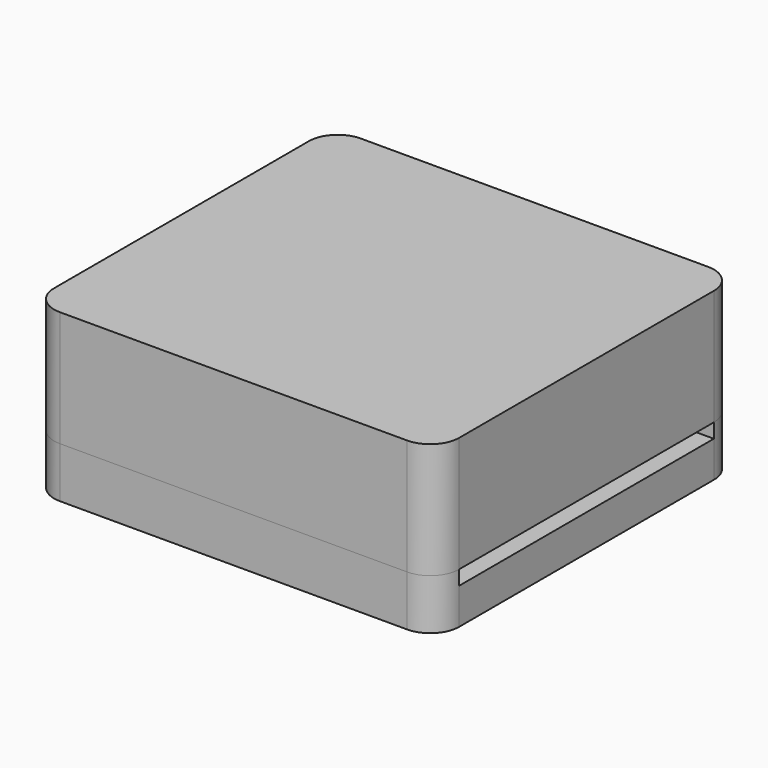
from build123d import *

# Parameters (mm, degrees)
BOX004_W        = 24
BOX004_H        = 20
BOX004_DEPTH    = 6
BOX003_W        = 28
BOX003_H        = 26
BOX003_DEPTH    = 8
SKETCH001_W     = 10
SKETCH001_H     = 6
POCKET001_DEPTH = 2
FILLET_R        = 2
BOX002_W        = 8
BOX002_H        = 10
BOX002_DEPTH    = 1.2
BOX001_W        = 26
BOX001_H        = 22
BOX001_DEPTH    = 1
POCKET_DEPTH    = 1
BOX_W           = 28
BOX_H           = 26
BOX_DEPTH       = 3.5
FILLET001_R     = 2


with BuildPart() as obj1:
    # Box004 → Box004 (new body)
    with BuildSketch(Plane(origin=(2, 3, 3.5), x_dir=(1, 0, 0), z_dir=(0, 0, 1))):
        with Locations((12, 10)):
            Rectangle(BOX004_W, BOX004_H)
    extrude(amount=BOX004_DEPTH)


with BuildPart() as fillet_body:
    # Box003 → Box003 (new body)
    with BuildSketch(Plane.XY.offset(3.5)):
        with Locations((14, 13)):
            Rectangle(BOX003_W, BOX003_H)
    extrude(amount=BOX003_DEPTH)

    # Cut002: cut obj1
    add(obj1.part, mode=Mode.SUBTRACT)

    # Sketch001 → Pocket001 (cut)
    with BuildSketch(Plane(origin=(0, 0, 0), x_dir=(0, -1, 0), z_dir=(-1, 0, 0))):
        with Locations((-13, 6.5)):
            Rectangle(SKETCH001_W, SKETCH001_H)
    extrude(amount=-POCKET001_DEPTH, mode=Mode.SUBTRACT)

    # Fillet
    fillet_edges = [fillet_body.edges().sort_by_distance(p)[0] for p in [
        (28, 26, 7.5),
        (0, 26, 7.5),
        (28, 0, 7.5),
        (0, 0, 7.5),
    ]]
    fillet(fillet_edges, radius=FILLET_R)


with BuildPart() as obj2:
    # Box002 → Box002 (new body)
    with BuildSketch(Plane(origin=(2, 8, 1.3), x_dir=(1, 0, 0), z_dir=(0, 0, 1))):
        with Locations((4, 5)):
            Rectangle(BOX002_W, BOX002_H)
    extrude(amount=BOX002_DEPTH)


with BuildPart() as pocket:
    # Box001 → Box001 (new body)
    with BuildSketch(Plane(origin=(2, 2, 2.5), x_dir=(1, 0, 0), z_dir=(0, 0, 1))):
        with Locations((13, 11)):
            Rectangle(BOX001_W, BOX001_H)
    extrude(amount=BOX001_DEPTH)

    # Sketch → Pocket (cut)
    with BuildSketch(Plane(origin=(2, 2, 3.5), x_dir=(1, 0, 0), z_dir=(0, 0, 1))):
        Polygon((24, 22), (22.741351, 20.5), (20.708649, 20.5), (19.45, 22), align=None)
        Polygon((19.45, 0), (20.708649, 1.5), (22.741351, 1.5), (24, 0), align=None)
    extrude(amount=-POCKET_DEPTH, mode=Mode.SUBTRACT)


with BuildPart() as fillet001:
    # Box → Box (new body)
    with BuildSketch(Plane.XY):
        with Locations((14, 13)):
            Rectangle(BOX_W, BOX_H)
    extrude(amount=BOX_DEPTH)

    # Cut: cut Pocket
    add(pocket.part, mode=Mode.SUBTRACT)

    # Cut001: cut obj2
    add(obj2.part, mode=Mode.SUBTRACT)

    # Fillet001
    fillet001_edges = [fillet001.edges().sort_by_distance(p)[0] for p in [
        (28, 26, 1.75),
        (28, 0, 1.75),
        (0, 0, 1.75),
        (0, 26, 1.75),
    ]]
    fillet(fillet001_edges, radius=FILLET001_R)


solid = Compound([fillet_body.part, fillet001.part])
